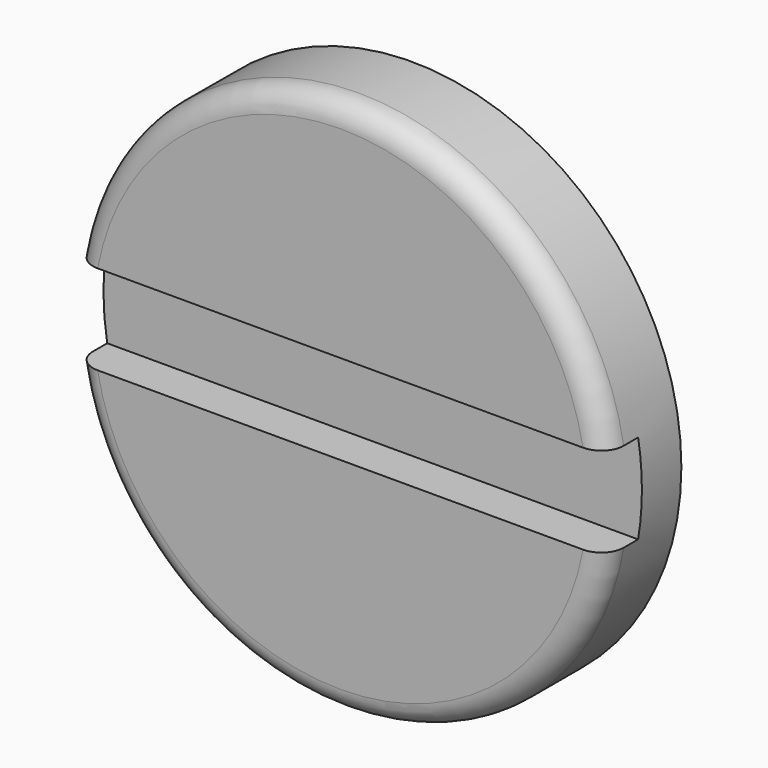
from build123d import *

# Parameters (mm, degrees)
F0_R     = 6
F1_DEPTH = 2
F2_R     = 2.5
F3_DEPTH = 1
F4_W     = 2.0085166757
F4_H     = 2
F5_DEPTH = 12.5
F6_R     = 0.5


with BuildPart() as f1:
    # F0 (on Front) → F1 (new body)
    with BuildSketch(Plane.XZ):
        Circle(F0_R)
    extrude(amount=F1_DEPTH)

    # F2 (on face) → F3 (cut)
    with BuildSketch(Plane(origin=(0, 0, 0), x_dir=(-1, 0, 0), z_dir=(0, 1, 0))):
        Circle(F2_R)
    extrude(amount=-F3_DEPTH, mode=Mode.SUBTRACT)

    # F4 (on Right) → F5 (cut, symmetric)
    with BuildSketch(Plane.YZ):
        with Locations((-2.1042583379, 0)):
            Rectangle(F4_W, F4_H)
    extrude(amount=F5_DEPTH, both=True, mode=Mode.SUBTRACT)

    # F6
    f6_edges = [f1.edges().sort_by_distance(p)[0] for p in [
        (0, -2, -6),
        (0, -2, 6),
    ]]
    fillet(f6_edges, radius=F6_R)


solid = f1.part
